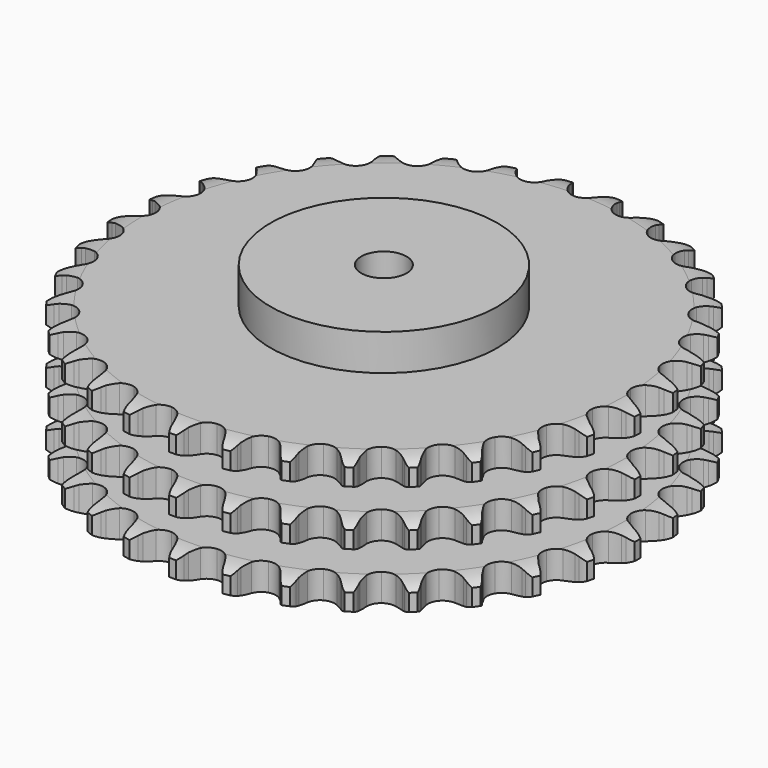
from build123d import *

# Parameters (mm, degrees)
PAD_DEPTH         = 91
SKETCH001_R       = 75
PAD001_DEPTH      = 115
SKETCH002_R       = 15
POCKET_DEPTH      = 0.001
POCKET_DEPTH_BACK = 115.001


with BuildPart() as part:
    # Sprocket → Pad (new body)
    with BuildSketch(Plane.XY):
        with BuildLine():
            ThreePointArc((-16.864436, 176.612362), (-13.979734, 173.593063), (-12.003774, 169.914306))
            Line((-12.003774, 169.914306), (-11.074432, 167.43067))
            ThreePointArc((-11.074432, 167.43067), (-9.604409, 164.218514), (-7.693782, 161.247248))
            ThreePointArc((-7.693782, 161.247248), (-4.301926, 158.412588), (0, 157.396016))
            ThreePointArc((0, 157.396016), (4.301926, 158.412588), (7.693782, 161.247248))
            ThreePointArc((7.693782, 161.247248), (9.604409, 164.218514), (11.074432, 167.43067))
            Line((11.074432, 167.43067), (12.003774, 169.914306))
            ThreePointArc((12.003774, 169.914306), (13.979734, 173.593063), (16.864436, 176.612362))
            ThreePointArc((16.864436, 176.612362), (19.125601, 173.101693), (20.369643, 169.115463))
            Line((20.369643, 169.115463), (20.81216, 166.50083))
            ThreePointArc((20.81216, 166.50083), (21.647714, 163.068518), (22.961497, 159.789358))
            ThreePointArc((22.961497, 159.789358), (25.755595, 156.364011), (29.787392, 154.551665))
            ThreePointArc((29.787392, 154.551665), (34.203964, 154.735721), (38.070987, 156.877243))
            Line((38.070987, 156.877243), (42.560765, 162.30913))
            ThreePointArc((42.560765, 162.30913), (43.22185, 163.459022), (43.943344, 164.572004))
            ThreePointArc((43.943344, 164.572004), (46.579805, 167.810328), (49.983783, 170.229131))
            ThreePointArc((49.983783, 170.229131), (51.539688, 166.353976), (52.006849, 162.204345))
            Line((52.006849, 162.204345), (51.946546, 159.553216))
            ThreePointArc((51.946546, 159.553216), (52.117431, 156.0248), (52.786888, 152.556264))
            ThreePointArc((52.786888, 152.556264), (54.882241, 148.664031), (58.49819, 146.121414))
            ThreePointArc((58.49819, 146.121414), (62.869781, 145.466302), (67.072208, 146.837285))
            Line((67.072208, 146.837285), (72.508842, 151.321314))
            ThreePointArc((72.508842, 151.321314), (73.375598, 152.325316), (74.294687, 153.281641))
            ThreePointArc((74.294687, 153.281641), (77.496361, 155.962491), (81.296586, 157.693376))
            ThreePointArc((81.296586, 157.693376), (82.090995, 153.593793), (81.764392, 149.430741))
            Line((81.764392, 149.430741), (81.203449, 146.838933))
            ThreePointArc((81.203449, 146.838933), (80.703489, 143.34194), (80.704423, 139.80939))
            ThreePointArc((80.704423, 139.80939), (82.025301, 135.590946), (85.094711, 132.409954))
            ThreePointArc((85.094711, 132.409954), (89.263321, 130.939352), (93.649265, 131.490245))
            Line((93.649265, 131.490245), (99.83626, 134.864353))
            ThreePointArc((99.83626, 134.864353), (100.877361, 135.686176), (101.960827, 136.45128))
            ThreePointArc((101.960827, 136.45128), (105.611996, 138.477763), (109.671118, 139.458171))
            ThreePointArc((109.671118, 139.458171), (109.67532, 135.28233), (108.566756, 131.25632))
            Line((108.566756, 131.25632), (107.525448, 128.817508))
            ThreePointArc((107.525448, 128.817508), (106.372712, 125.478329), (105.70509, 122.009439))
            ThreePointArc((105.70509, 122.009439), (106.203752, 117.617251), (108.615687, 113.912854))
            ThreePointArc((108.615687, 113.912854), (112.430652, 111.679913), (116.841593, 111.390805))
            Line((116.841593, 111.390805), (123.555335, 113.533042))
            ThreePointArc((123.555335, 113.533042), (124.733153, 114.142984), (125.941837, 114.689214))
            ThreePointArc((125.941837, 114.689214), (129.910539, 115.988088), (134.08185, 116.182585))
            ThreePointArc((134.08185, 116.182585), (133.295694, 112.081411), (131.445235, 108.337953))
            Line((131.445235, 108.337953), (129.961197, 106.140283))
            ThreePointArc((129.961197, 106.140283), (128.197349, 103.079604), (126.885299, 99.79975))
            ThreePointArc((126.885299, 99.79975), (126.543723, 95.392562), (128.21101, 91.298647))
            ThreePointArc((128.21101, 91.298647), (131.534446, 88.384071), (135.810962, 87.265411))
            Line((135.810962, 87.265411), (142.808798, 88.098351))
            ThreePointArc((142.808798, 88.098351), (144.080764, 88.474367), (145.37098, 88.781981))
            ThreePointArc((145.37098, 88.781981), (149.513776, 89.306301), (153.646515, 88.707857))
            ThreePointArc((153.646515, 88.707857), (152.098413, 84.829578), (149.572941, 81.503971))
            Line((149.572941, 81.503971), (147.699809, 79.626872))
            ThreePointArc((147.699809, 79.626872), (145.388599, 76.955314), (143.479544, 73.983038))
            ThreePointArc((143.479544, 73.983038), (142.310074, 69.720137), (143.172452, 65.384668))
            ThreePointArc((143.172452, 65.384668), (145.884243, 61.893798), (149.871768, 59.986018))
            Line((149.871768, 59.986018), (156.90078, 59.479556))
            ThreePointArc((156.90078, 59.479556), (158.220921, 59.608056), (159.546037, 59.665936))
            ThreePointArc((159.546037, 59.665936), (163.713196, 59.396751), (167.657995, 58.026996))
            ThreePointArc((167.657995, 58.026996), (165.4039, 54.511783), (162.294691, 51.724223))
            Line((162.294691, 51.724223), (160.100166, 50.235538))
            ThreePointArc((160.100166, 50.235538), (157.325126, 48.049658), (154.888063, 45.492386))
            ThreePointArc((154.888063, 45.492386), (152.932968, 41.527844), (152.959269, 37.107517))
            ThreePointArc((152.959269, 37.107517), (154.961403, 33.166522), (158.515819, 30.538573))
            Line((158.515819, 30.538573), (165.321958, 28.711015))
            ThreePointArc((165.321958, 28.711015), (166.642561, 28.587354), (167.954685, 28.393409))
            ThreePointArc((167.954685, 28.393409), (171.995594, 27.340449), (175.609878, 25.248889))
            ThreePointArc((175.609878, 25.248889), (172.731259, 22.22379), (169.150688, 20.075026))
            Line((169.150688, 20.075026), (166.714085, 19.028561))
            ThreePointArc((166.714085, 19.028561), (163.575514, 17.407362), (160.698525, 15.35752))
            ThreePointArc((160.698525, 15.35752), (158.028466, 11.834628), (157.21774, 7.489204))
            ThreePointArc((157.21774, 7.489204), (158.437854, 3.240521), (161.430695, -0.012614))
            Line((161.430695, -0.012614), (167.767971, -3.095217))
            ThreePointArc((167.767971, -3.095217), (169.041306, -3.466568), (170.293013, -3.90533))
            ThreePointArc((170.293013, -3.90533), (174.061624, -5.704009), (177.214762, -8.44178))
            ThreePointArc((177.214762, -8.44178), (173.81566, -10.867428), (169.893139, -12.299734))
            Line((169.893139, -12.299734), (167.302523, -12.866158))
            ThreePointArc((167.302523, -12.866158), (163.913856, -13.864082), (160.700923, -15.332406))
            ThreePointArc((160.700923, -15.332406), (157.412404, -18.286323), (155.793951, -22.399789))
            ThreePointArc((155.793951, -22.399789), (156.187948, -26.8026), (158.511044, -30.563346))
            Line((158.511044, -30.563346), (164.150411, -34.789579))
            ThreePointArc((164.150411, -34.789579), (165.330457, -35.3952), (166.476508, -36.06292))
            ThreePointArc((166.476508, -36.06292), (169.836613, -38.542309), (172.414643, -41.82734))
            ThreePointArc((172.414643, -41.82734), (168.61791, -43.56587), (164.495208, -44.229949))
            Line((164.495208, -44.229949), (161.844212, -44.295861))
            ThreePointArc((161.844212, -44.295861), (158.327925, -44.634441), (154.895171, -45.468179))
            ThreePointArc((154.895171, -45.468179), (151.107047, -47.746359), (148.739364, -51.479194))
            ThreePointArc((148.739364, -51.479194), (148.293003, -55.877006), (149.862392, -60.009439))
            Line((149.862392, -60.009439), (154.600028, -65.226556))
            ThreePointArc((154.600028, -65.226556), (155.644134, -66.044558), (156.643108, -66.917103))
            ThreePointArc((156.643108, -66.917103), (159.473264, -69.98759), (161.38301, -73.701151))
            ThreePointArc((161.38301, -73.701151), (157.32587, -74.689727), (153.151993, -74.56158))
            Line((153.151993, -74.56158), (150.53643, -74.124595))
            ThreePointArc((150.53643, -74.124595), (147.019609, -73.791595), (143.491104, -73.960614))
            ThreePointArc((143.491104, -73.960614), (139.340288, -75.480717), (136.308948, -78.698008))
            ThreePointArc((136.308948, -78.698008), (135.038362, -82.931871), (135.797322, -87.286634))
            Line((135.797322, -87.286634), (139.461998, -93.306075))
            ThreePointArc((139.461998, -93.306075), (140.332427, -94.306893), (141.148218, -95.352727))
            ThreePointArc((141.148218, -95.352727), (143.346136, -98.903336), (144.518574, -102.911211))
            ThreePointArc((144.518574, -102.911211), (140.347662, -103.114103), (136.273465, -102.19836))
            Line((136.273465, -102.19836), (133.787868, -101.274274))
            ThreePointArc((133.787868, -101.274274), (130.397622, -100.281729), (126.900895, -99.779919))
            ThreePointArc((126.900895, -99.779919), (122.537408, -100.487005), (118.951972, -103.072471))
            ThreePointArc((118.951972, -103.072471), (116.903083, -106.989362), (116.824184, -111.409063))
            Line((116.824184, -111.409063), (119.283447, -118.013269))
            ThreePointArc((119.283447, -118.013269), (119.948741, -119.160731), (120.551864, -120.342055))
            ThreePointArc((120.551864, -120.342055), (122.038105, -124.244459), (122.430861, -128.401791))
            ThreePointArc((122.430861, -128.401791), (118.296925, -127.811667), (114.469659, -126.141425))
            Line((114.469659, -126.141425), (112.203865, -124.763637))
            ThreePointArc((112.203865, -124.763637), (109.062725, -123.14742), (105.724156, -121.992918))
            ThreePointArc((105.724156, -121.992918), (101.305707, -121.861431), (97.295762, -123.721625))
            ThreePointArc((97.295762, -123.721625), (94.542623, -127.179979), (93.628714, -131.504879))
            Line((93.628714, -131.504879), (94.793682, -138.455156))
            ThreePointArc((94.793682, -138.455156), (95.229794, -139.707789), (95.598451, -140.981907))
            ThreePointArc((95.598451, -140.981907), (96.319299, -145.095063), (95.918177, -149.251596))
            ThreePointArc((95.918177, -149.251596), (91.970629, -147.889784), (88.528622, -145.525411))
            Line((88.528622, -145.525411), (86.564522, -143.743716))
            ThreePointArc((86.564522, -143.743716), (83.786017, -141.562242), (80.726272, -139.796775))
            ThreePointArc((80.726272, -139.796775), (76.412553, -138.831467), (72.123029, -139.899158))
            ThreePointArc((72.123029, -139.899158), (68.765145, -142.77398), (67.04926, -146.847765))
            Line((67.04926, -146.847765), (66.877826, -153.892913))
            ThreePointArc((66.877826, -153.892913), (67.068995, -155.205445), (67.189861, -156.526306))
            ThreePointArc((67.189861, -156.526306), (67.119263, -160.701553), (65.93876, -164.70706))
            ThreePointArc((65.93876, -164.70706), (62.320274, -162.622778), (59.387929, -159.649729))
            Line((59.387929, -159.649729), (57.796511, -157.528523))
            ThreePointArc((57.796511, -157.528523), (55.481065, -154.860636), (52.810729, -152.548013))
            ThreePointArc((52.810729, -152.548013), (48.757651, -150.783772), (44.343582, -151.020371))
            ThreePointArc((44.343582, -151.020371), (40.502316, -153.207758), (38.04647, -156.88319))
            Line((38.04647, -156.88319), (36.544831, -163.76858))
            ThreePointArc((36.544831, -163.76858), (36.484147, -165.093571), (36.352855, -166.413437))
            ThreePointArc((36.352855, -166.413437), (35.493361, -170.499871), (33.576145, -174.209581))
            ThreePointArc((33.576145, -174.209581), (30.417502, -171.478162), (28.100802, -168.00389))
            Line((28.100802, -168.00389), (26.939583, -165.619839))
            ThreePointArc((26.939583, -165.619839), (25.170881, -162.561963), (22.986469, -159.785768))
            ThreePointArc((22.986469, -159.785768), (19.34052, -157.286359), (14.961443, -156.683315))
            ThreePointArc((14.961443, -156.683315), (10.775627, -158.104207), (7.668582, -161.248449))
            Line((7.668582, -161.248449), (4.891011, -167.725223))
            ThreePointArc((4.891011, -167.725223), (4.580667, -169.014785), (4.201961, -170.285952))
            ThreePointArc((4.201961, -170.285952), (2.584637, -174.135879), (0, -177.415714))
            ThreePointArc((0, -177.415714), (-2.584637, -174.135879), (-4.201961, -170.285952))
            Line((-4.201961, -170.285952), (-4.891011, -167.725223))
            ThreePointArc((-4.891011, -167.725223), (-6.049043, -164.387877), (-7.668582, -161.248449))
            ThreePointArc((-7.668582, -161.248449), (-10.775627, -158.104207), (-14.961443, -156.683315))
            ThreePointArc((-14.961443, -156.683315), (-19.34052, -157.286359), (-22.986469, -159.785768))
            Line((-22.986469, -159.785768), (-26.939583, -165.619839))
            ThreePointArc((-26.939583, -165.619839), (-27.48837, -166.827365), (-28.100802, -168.00389))
            ThreePointArc((-28.100802, -168.00389), (-30.417502, -171.478162), (-33.576145, -174.209581))
            ThreePointArc((-33.576145, -174.209581), (-35.493361, -170.499871), (-36.352855, -166.413437))
            Line((-36.352855, -166.413437), (-36.544831, -163.76858))
            ThreePointArc((-36.544831, -163.76858), (-37.050339, -160.272385), (-38.04647, -156.88319))
            ThreePointArc((-38.04647, -156.88319), (-40.502316, -153.207758), (-44.343582, -151.020371))
            ThreePointArc((-44.343582, -151.020371), (-48.757651, -150.783772), (-52.810729, -152.548013))
            Line((-52.810729, -152.548013), (-57.796511, -157.528523))
            ThreePointArc((-57.796511, -157.528523), (-58.563906, -158.610369), (-59.387929, -159.649729))
            ThreePointArc((-59.387929, -159.649729), (-62.320274, -162.622778), (-65.93876, -164.70706))
            ThreePointArc((-65.93876, -164.70706), (-67.119263, -160.701553), (-67.189861, -156.526306))
            Line((-67.189861, -156.526306), (-66.877826, -153.892913))
            ThreePointArc((-66.877826, -153.892913), (-66.712539, -150.364231), (-67.04926, -146.847765))
            ThreePointArc((-67.04926, -146.847765), (-68.765145, -142.77398), (-72.123029, -139.899158))
            ThreePointArc((-72.123029, -139.899158), (-76.412553, -138.831467), (-80.726272, -139.796775))
            Line((-80.726272, -139.796775), (-86.564522, -143.743716))
            ThreePointArc((-86.564522, -143.743716), (-87.522789, -144.660781), (-88.528622, -145.525411))
            ThreePointArc((-88.528622, -145.525411), (-91.970629, -147.889784), (-95.918177, -149.251596))
            ThreePointArc((-95.918177, -149.251596), (-96.319299, -145.095063), (-95.598451, -140.981907))
            Line((-95.598451, -140.981907), (-94.793682, -138.455156))
            ThreePointArc((-94.793682, -138.455156), (-93.963575, -135.021523), (-93.628714, -131.504879))
            ThreePointArc((-93.628714, -131.504879), (-94.542623, -127.179979), (-97.295762, -123.721625))
            ThreePointArc((-97.295762, -123.721625), (-101.305707, -121.861431), (-105.724156, -121.992918))
            Line((-105.724156, -121.992918), (-112.203865, -124.763637))
            ThreePointArc((-112.203865, -124.763637), (-113.318371, -125.482775), (-114.469659, -126.141425))
            ThreePointArc((-114.469659, -126.141425), (-118.296925, -127.811667), (-122.430861, -128.401791))
            ThreePointArc((-122.430861, -128.401791), (-122.038105, -124.244459), (-120.551864, -120.342055))
            Line((-120.551864, -120.342055), (-119.283447, -118.013269))
            ThreePointArc((-119.283447, -118.013269), (-117.818522, -114.798784), (-116.824184, -111.409063))
            ThreePointArc((-116.824184, -111.409063), (-116.903083, -106.989362), (-118.951972, -103.072471))
            ThreePointArc((-118.951972, -103.072471), (-122.537408, -100.487005), (-126.900895, -99.779919))
            Line((-126.900895, -99.779919), (-133.787868, -101.274274))
            ThreePointArc((-133.787868, -101.274274), (-135.018332, -101.769495), (-136.273465, -102.19836))
            ThreePointArc((-136.273465, -102.19836), (-140.347662, -103.114103), (-144.518574, -102.911211))
            ThreePointArc((-144.518574, -102.911211), (-143.346136, -98.903336), (-141.148218, -95.352727))
            Line((-141.148218, -95.352727), (-139.461998, -93.306075))
            ThreePointArc((-139.461998, -93.306075), (-137.4152, -90.426919), (-135.797322, -87.286634))
            ThreePointArc((-135.797322, -87.286634), (-135.038362, -82.931871), (-136.308948, -78.698008))
            ThreePointArc((-136.308948, -78.698008), (-139.340288, -75.480717), (-143.491104, -73.960614))
            Line((-143.491104, -73.960614), (-150.53643, -74.124595))
            ThreePointArc((-150.53643, -74.124595), (-151.838378, -74.378001), (-153.151993, -74.56158))
            ThreePointArc((-153.151993, -74.56158), (-157.32587, -74.689727), (-161.38301, -73.701151))
            ThreePointArc((-161.38301, -73.701151), (-159.473264, -69.98759), (-156.643108, -66.917103))
            Line((-156.643108, -66.917103), (-154.600028, -65.226556))
            ThreePointArc((-154.600028, -65.226556), (-152.045336, -62.786789), (-149.862392, -60.009439))
            ThreePointArc((-149.862392, -60.009439), (-148.293003, -55.877006), (-148.739364, -51.479194))
            ThreePointArc((-148.739364, -51.479194), (-151.107047, -47.746359), (-154.895171, -45.468179))
            Line((-154.895171, -45.468179), (-161.844212, -44.295861))
            ThreePointArc((-161.844212, -44.295861), (-163.17059, -44.298291), (-164.495208, -44.229949))
            ThreePointArc((-164.495208, -44.229949), (-168.61791, -43.56587), (-172.414643, -41.82734))
            ThreePointArc((-172.414643, -41.82734), (-169.836613, -38.542309), (-166.476508, -36.06292))
            Line((-166.476508, -36.06292), (-164.150411, -34.789579))
            ThreePointArc((-164.150411, -34.789579), (-161.180156, -32.877381), (-158.511044, -30.563346))
            ThreePointArc((-158.511044, -30.563346), (-156.187948, -26.8026), (-155.793951, -22.399789))
            ThreePointArc((-155.793951, -22.399789), (-157.412404, -18.286323), (-160.700923, -15.332406))
            Line((-160.700923, -15.332406), (-167.302523, -12.866158))
            ThreePointArc((-167.302523, -12.866158), (-168.605392, -12.617526), (-169.893139, -12.299734))
            ThreePointArc((-169.893139, -12.299734), (-173.81566, -10.867428), (-177.214762, -8.44178))
            ThreePointArc((-177.214762, -8.44178), (-174.061624, -5.704009), (-170.293013, -3.90533))
            Line((-170.293013, -3.90533), (-167.767971, -3.095217))
            ThreePointArc((-167.767971, -3.095217), (-164.489506, -1.779699), (-161.430695, -0.012614))
            ThreePointArc((-161.430695, -0.012614), (-158.437854, 3.240521), (-157.21774, 7.489204))
            ThreePointArc((-157.21774, 7.489204), (-158.028466, 11.834628), (-160.698525, 15.35752))
            Line((-160.698525, 15.35752), (-166.714085, 19.028561))
            ThreePointArc((-166.714085, 19.028561), (-167.946355, 19.519269), (-169.150688, 20.075026))
            ThreePointArc((-169.150688, 20.075026), (-172.731259, 22.22379), (-175.609878, 25.248889))
            ThreePointArc((-175.609878, 25.248889), (-171.995594, 27.340449), (-167.954685, 28.393409))
            Line((-167.954685, 28.393409), (-165.321958, 28.711015))
            ThreePointArc((-165.321958, 28.711015), (-161.853777, 29.382306), (-158.515819, 30.538573))
            ThreePointArc((-158.515819, 30.538573), (-154.961403, 33.166522), (-152.959269, 37.107517))
            ThreePointArc((-152.959269, 37.107517), (-152.932968, 41.527844), (-154.888063, 45.492386))
            Line((-154.888063, 45.492386), (-160.100166, 50.235538))
            ThreePointArc((-160.100166, 50.235538), (-161.2173, 50.950587), (-162.294691, 51.724223))
            ThreePointArc((-162.294691, 51.724223), (-165.4039, 54.511783), (-167.657995, 58.026996))
            ThreePointArc((-167.657995, 58.026996), (-163.713196, 59.396751), (-159.546037, 59.665936))
            Line((-159.546037, 59.665936), (-156.90078, 59.479556))
            ThreePointArc((-156.90078, 59.479556), (-153.36823, 59.482359), (-149.871768, 59.986018))
            ThreePointArc((-149.871768, 59.986018), (-145.884243, 61.893798), (-143.172452, 65.384668))
            ThreePointArc((-143.172452, 65.384668), (-142.310074, 69.720137), (-143.479544, 73.983038))
            Line((-143.479544, 73.983038), (-147.699809, 79.626872))
            ThreePointArc((-147.699809, 79.626872), (-148.661431, 80.540418), (-149.572941, 81.503971))
            ThreePointArc((-149.572941, 81.503971), (-152.098413, 84.829578), (-153.646515, 88.707857))
            ThreePointArc((-153.646515, 88.707857), (-149.513776, 89.306301), (-145.37098, 88.781981))
            Line((-145.37098, 88.781981), (-142.808798, 88.098351))
            ThreePointArc((-142.808798, 88.098351), (-139.339556, 87.432563), (-135.810962, 87.265411))
            ThreePointArc((-135.810962, 87.265411), (-131.534446, 88.384071), (-128.21101, 91.298647))
            ThreePointArc((-128.21101, 91.298647), (-126.543723, 95.392562), (-126.885299, 99.79975))
            Line((-126.885299, 99.79975), (-129.961197, 106.140283))
            ThreePointArc((-129.961197, 106.140283), (-130.732551, 107.219309), (-131.445235, 108.337953))
            ThreePointArc((-131.445235, 108.337953), (-133.295694, 112.081411), (-134.08185, 116.182585))
            ThreePointArc((-134.08185, 116.182585), (-129.910539, 115.988088), (-125.941837, 114.689214))
            Line((-125.941837, 114.689214), (-123.555335, 113.533042))
            ThreePointArc((-123.555335, 113.533042), (-120.274787, 112.222727), (-116.841593, 111.390805))
            ThreePointArc((-116.841593, 111.390805), (-112.430652, 111.679913), (-108.615687, 113.912854))
            ThreePointArc((-108.615687, 113.912854), (-106.203752, 117.617251), (-105.70509, 122.009439))
            Line((-105.70509, 122.009439), (-107.525448, 128.817508))
            ThreePointArc((-107.525448, 128.817508), (-108.078656, 130.023014), (-108.566756, 131.25632))
            ThreePointArc((-108.566756, 131.25632), (-109.67532, 135.28233), (-109.671118, 139.458171))
            ThreePointArc((-109.671118, 139.458171), (-105.611996, 138.477763), (-101.960827, 136.45128))
            Line((-101.960827, 136.45128), (-99.83626, 134.864353))
            ThreePointArc((-99.83626, 134.864353), (-96.862974, 132.95687), (-93.649265, 131.490245))
            ThreePointArc((-93.649265, 131.490245), (-89.263321, 130.939352), (-85.094711, 132.409954))
            ThreePointArc((-85.094711, 132.409954), (-82.025301, 135.590946), (-80.704423, 139.80939))
            Line((-80.704423, 139.80939), (-81.203449, 146.838933))
            ThreePointArc((-81.203449, 146.838933), (-81.518516, 148.127349), (-81.764392, 149.430741))
            ThreePointArc((-81.764392, 149.430741), (-82.090995, 153.593793), (-81.296586, 157.693376))
            ThreePointArc((-81.296586, 157.693376), (-77.496361, 155.962491), (-74.294687, 153.281641))
            Line((-74.294687, 153.281641), (-72.508842, 151.321314))
            ThreePointArc((-72.508842, 151.321314), (-69.950281, 148.885604), (-67.072208, 146.837285))
            ThreePointArc((-67.072208, 146.837285), (-62.869781, 145.466302), (-58.49819, 146.121414))
            ThreePointArc((-58.49819, 146.121414), (-54.882241, 148.664031), (-52.786888, 152.556264))
            Line((-52.786888, 152.556264), (-51.946546, 159.553216))
            ThreePointArc((-51.946546, 159.553216), (-52.012086, 160.877976), (-52.006849, 162.204345))
            ThreePointArc((-52.006849, 162.204345), (-51.539688, 166.353976), (-49.983783, 170.229131))
            ThreePointArc((-49.983783, 170.229131), (-46.579805, 167.810328), (-43.943344, 164.572004))
            Line((-43.943344, 164.572004), (-42.560765, 162.30913))
            ThreePointArc((-42.560765, 162.30913), (-40.509403, 159.433225), (-38.070987, 156.877243))
            ThreePointArc((-38.070987, 156.877243), (-34.203964, 154.735721), (-29.787392, 154.551665))
            ThreePointArc((-29.787392, 154.551665), (-25.755595, 156.364011), (-22.961497, 159.789358))
            Line((-22.961497, 159.789358), (-20.81216, 166.50083))
            ThreePointArc((-20.81216, 166.50083), (-20.625802, 167.814053), (-20.369643, 169.115463))
            ThreePointArc((-20.369643, 169.115463), (-19.125601, 173.101693), (-16.864436, 176.612362))
        make_face()
    extrude(amount=PAD_DEPTH)

    # Sketch → Groove (revolve, cut)
    with BuildSketch(Plane.XZ):
        with BuildLine():
            ThreePointArc((160.048368, 0), (167.531683, 0.887302), (174.6, 3.5))
            Line((174.6, 3.5), (174.6, 14.7))
            ThreePointArc((174.6, 14.7), (167.531683, 17.312698), (160.048368, 18.2))
            Line((75, 18.2), (160.048368, 18.2))
            Line((75, 18.2), (75, 36.4))
            Line((75, 36.4), (160.048368, 36.4))
            ThreePointArc((160.048368, 36.4), (167.531683, 37.287302), (174.6, 39.9))
            Line((174.6, 51.1), (174.6, 39.9))
            ThreePointArc((174.6, 51.1), (167.531683, 53.712698), (160.048368, 54.6))
            Line((75, 54.6), (160.048368, 54.6))
            Line((75, 72.8), (75, 54.6))
            Line((160.048368, 72.8), (75, 72.8))
            ThreePointArc((160.048368, 72.8), (167.531683, 73.687302), (174.6, 76.3))
            Line((174.6, 76.3), (174.6, 87.5))
            ThreePointArc((174.6, 87.5), (167.531683, 90.112698), (160.048368, 91))
            Line((160.048368, 91), (184.6, 91))
            Line((184.6, 91), (184.6, 0))
            Line((160.048368, 0), (184.6, 0))
        make_face()
    revolve(axis=Axis((0, 0, 0), (0, 0, 1)), mode=Mode.SUBTRACT)

    # Sketch001 → Pad001 (join)
    with BuildSketch(Plane.XY):
        Circle(SKETCH001_R)
    extrude(amount=PAD001_DEPTH)

    # Sketch002 → Pocket (cut, two sides)
    with BuildSketch(Plane.XY) as pocket_sk:
        Circle(SKETCH002_R)
    extrude(amount=-POCKET_DEPTH, mode=Mode.SUBTRACT)
    extrude(pocket_sk.sketch, amount=POCKET_DEPTH_BACK, mode=Mode.SUBTRACT)


solid = part.part
